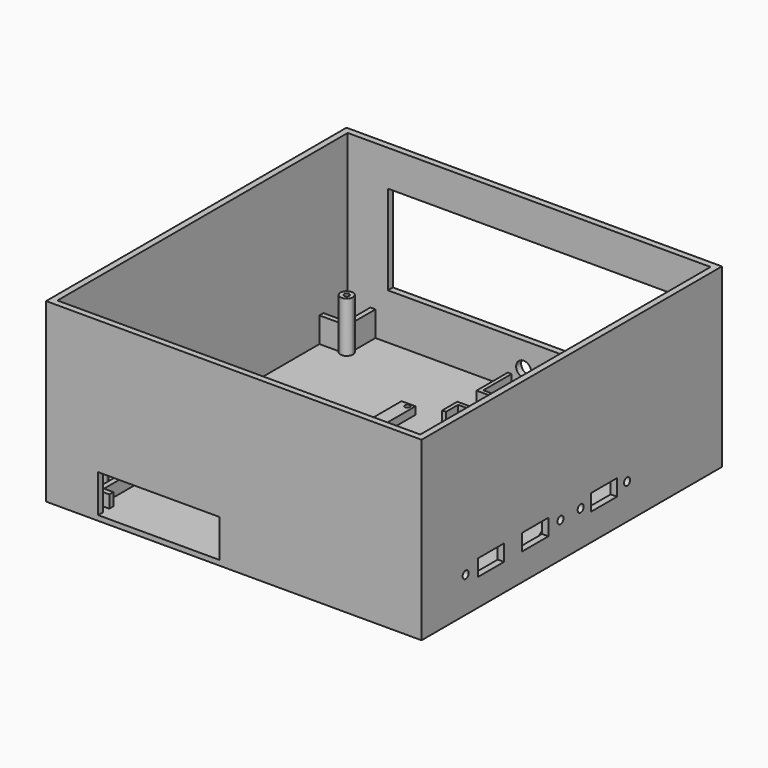
from build123d import *

# Parameters (mm, degrees)
F1_W      = 189.0500009048
F1_H      = 189.0500009048
F1_W_2    = 182.7000009048
F1_H_2    = 182.7000009048
F2_DEPTH  = 86.36
F5_W      = 189.0500009048
F5_H      = 189.0500009048
F6_DEPTH  = 2.54
F7_W      = 7.62
F7_H      = 7.62
F7_R      = 3.175
F7_R_2    = 1.27
F7_W_2    = 6.985
F7_H_2    = 33.02
F8_DEPTH  = 3.81
F9_R      = 1.27
F10_DEPTH = 6.35
F11_R     = 5.08
F11_R_2   = 5.3975
F11_R_3   = 3.175
F11_R_4   = 3.81
F12_DEPTH = 3.175
F14_DEPTH = 3.176
F15_W     = 16.51
F15_H     = 8.255
F15_R     = 1.905
F16_DEPTH = 3.175
F20_DEPTH = 0.9525
F21_R     = 1.27
F22_DEPTH = 12.7
F23_DEPTH = 25.4
F24_W     = 159.385
F24_H     = 45.085
F25_DEPTH = 25.4


with BuildPart() as f2:
    # F1 (on Top) → F2 (new body)
    with BuildSketch(Plane.XY):
        with Locations((78.65, -74.84)):
            Rectangle(F1_W, F1_H)
        with Locations((78.65, -74.84)):
            Rectangle(F1_W_2, F1_H_2, mode=Mode.SUBTRACT)
    extrude(amount=F2_DEPTH)

    # F5 (on Top) → F6 (join)
    with BuildSketch(Plane.XY):
        with Locations((78.65, -74.84)):
            Rectangle(F5_W, F5_H)
    extrude(amount=-F6_DEPTH)

    # F7 (on Top) → F8 (join)
    with BuildSketch(Plane.XY):
        with Locations((81.7350004524, -95.2499995476)):
            Rectangle(F7_W, F7_H)
        with Locations((132.5350004524, -95.2499995476)):
            Rectangle(F7_W, F7_H)
        with Locations((83.0050004524, -5.0799995476)):
            Circle(F7_R)
        with Locations((83.0050004524, -5.0799995476)):
            Circle(F7_R_2, mode=Mode.SUBTRACT)
        with Locations((131.2650004524, 10.1600004524)):
            Circle(F7_R)
        with Locations((131.2650004524, 10.1600004524)):
            Circle(F7_R_2, mode=Mode.SUBTRACT)
        with Locations((50.9375004524, -41.2749995476)):
            Rectangle(F7_W_2, F7_H_2)
        with Locations((51.8900004524, -53.3399995476)):
            Circle(F7_R_2, mode=Mode.SUBTRACT)
        with Locations((51.8900004524, -26.6699995476)):
            Circle(F7_R_2, mode=Mode.SUBTRACT)
    extrude(amount=F8_DEPTH)

    # F9 (on Top) → F10 (join)
    with BuildSketch(Plane.XY):
        Polygon((76.0200004524, -15.2399995476), (67.8920004524, -15.2399995476), (67.8920004524, -24.7649995476), (69.7970004524, -24.7649995476), (69.7970004524, -17.1449995476), (77.9250004524, -17.1449995476), (77.9250004524, -1.2699995476), (69.7970004524, -1.2699995476), (69.7970004524, 16.5100004524), (67.8920004524, 16.5100004524), (67.8920004524, -3.1749995476), (76.0200004524, -3.1749995476), align=None)
        with BuildLine():
            Line((136.3450004524, 16.5100004524), (136.3450004524, -99.0599995476))
            Line((136.3450004524, -99.0599995476), (77.9250004524, -99.0599995476))
            Line((77.9250004524, -99.0599995476), (77.9250004524, -52.7049995476))
            Line((77.9250004524, -52.7049995476), (67.8920004524, -52.7049995476))
            Line((67.8920004524, -52.7049995476), (67.8920004524, -57.7849995476))
            Line((67.8920004524, -57.7849995476), (76.0200004524, -57.7849995476))
            Line((76.0200004524, -57.7849995476), (76.0200004524, -100.9649995476))
            Line((76.0200004524, -100.9649995476), (76.0200004524, -159.84))
            Line((76.0200004524, -159.84), (71.3210004524, -159.84))
            Line((71.3210004524, -159.84), (71.3210004524, -162.38))
            Line((71.3210004524, -162.38), (78.5600004524, -162.38))
            Line((78.5600004524, -162.38), (78.5600004524, -112.215))
            Line((78.5600004524, -112.215), (81.7350004524, -112.215))
            ThreePointArc((81.7350004524, -112.215), (84.9100004524, -109.04), (81.7350004524, -105.865))
            Line((81.7350004524, -105.865), (78.5600004524, -105.865))
            Line((78.5600004524, -105.865), (78.5600004524, -100.9649995476))
            Line((78.5600004524, -100.9649995476), (138.2500004524, -100.9649995476))
            Line((138.2500004524, -100.9649995476), (138.2500004524, 16.5100004524))
            Line((138.2500004524, 16.5100004524), (136.3450004524, 16.5100004524))
        make_face()
        with Locations((81.7350004524, -109.04)):
            Circle(F9_R, mode=Mode.SUBTRACT)
        with BuildLine():
            Line((5.6620004524, -57.7849995476), (47.4450004524, -57.7849995476))
            Line((47.4450004524, -57.7849995476), (47.4450004524, -55.2449995476))
            Line((47.4450004524, -55.2449995476), (3.1220004524, -55.2449995476))
            Line((3.1220004524, -55.2449995476), (3.1220004524, -105.865))
            Line((3.1220004524, -105.865), (-0.0529995476, -105.865))
            ThreePointArc((-0.0529995476, -105.865), (-3.2279995476, -109.04), (-0.0529995476, -112.215))
            Line((-0.0529995476, -112.215), (3.1220004524, -112.215))
            Line((3.1220004524, -112.215), (3.1220004524, -162.38))
            Line((3.1220004524, -162.38), (10.3610004524, -162.38))
            Line((10.3610004524, -162.38), (10.3610004524, -159.84))
            Line((10.3610004524, -159.84), (5.6620004524, -159.84))
            Line((5.6620004524, -159.84), (5.6620004524, -57.7849995476))
        make_face()
        with Locations((-0.0529995476, -109.04)):
            Circle(F9_R, mode=Mode.SUBTRACT)
    extrude(amount=F10_DEPTH)

    # F11 (on face) → F12 (cut, through all)
    with BuildSketch(Plane(origin=(0, 19.6850004524, 0), x_dir=(-1, 0, 0), z_dir=(0, 1, 0))):
        with Locations((-119.2000004524, 12.319)):
            Circle(F11_R)
        with Locations((-102.5630004524, 11.43)):
            Circle(F11_R_2)
        with Locations((-88.0850004524, 12.319)):
            Circle(F11_R_3)
        with Locations((-75.8930004524, 10.414)):
            Circle(F11_R_4)
    extrude(amount=-F12_DEPTH, mode=Mode.SUBTRACT)

    # F13 (on face) → F14 (cut, through all)
    with BuildSketch(Plane(origin=(0, -166.1900004524, 0), x_dir=(-1, 0, 0), z_dir=(0, 1, 0))):
        Polygon((-10.3610004524, 0), (-10.3610004524, 6.35), (-10.3610004524, 19.05), (-71.3210004524, 19.05), (-71.3210004524, 6.35), (-71.3210004524, 0), align=None)
        Polygon((-10.3610004524, 0), (-10.3610004524, 6.35), (-10.3610004524, 19.05), (-71.3210004524, 19.05), (-71.3210004524, 6.35), (-71.3210004524, 0), align=None)
        Polygon((-10.3610004524, 0), (-10.3610004524, 6.35), (-10.3610004524, 19.05), (-71.3210004524, 19.05), (-71.3210004524, 6.35), (-71.3210004524, 0), align=None)
        Polygon((-10.3610004524, 0), (-10.3610004524, 6.35), (-10.3610004524, 19.05), (-71.3210004524, 19.05), (-71.3210004524, 6.35), (-71.3210004524, 0), align=None)
        Polygon((-10.3610004524, 0), (-10.3610004524, 6.35), (-10.3610004524, 19.05), (-71.3210004524, 19.05), (-71.3210004524, 6.35), (-71.3210004524, 0), align=None)
        Polygon((-10.3610004524, 0), (-10.3610004524, 6.35), (-10.3610004524, 19.05), (-71.3210004524, 19.05), (-71.3210004524, 6.35), (-71.3210004524, 0), align=None)
    extrude(amount=-F14_DEPTH, mode=Mode.SUBTRACT)

    # F15 (on face) → F16 (cut, through all)
    with BuildSketch(Plane.YZ.offset(173.1750004524)):
        with Locations((-125.73, 15.24)):
            Rectangle(F15_W, F15_H)
        with Locations((-141.605, 15.24)):
            Circle(F15_R)
        with Locations((-97.79, 15.24)):
            Rectangle(F15_W, F15_H)
        with Locations((-81.915, 15.24)):
            Circle(F15_R)
        with Locations((-54.61, 15.24)):
            Rectangle(F15_W, F15_H)
        with Locations((-69.215, 15.24)):
            Circle(F15_R)
        with Locations((-40.005, 15.24)):
            Circle(F15_R)
    extrude(amount=-F16_DEPTH, mode=Mode.SUBTRACT)

    # F19 (on plane+point) → F20 (join, symmetric)
    with BuildSketch(Plane.XZ.offset(75.565)):
        Polygon((170.0000004524, 0), (170.0000004524, 21.59), (157.3000004524, 0), align=None)
    extrude(amount=F20_DEPTH, both=True)

    # F21 (on Top) → F22 (join)
    with BuildSketch(Plane.XY):
        with BuildLine():
            ThreePointArc((-1.27, 2.9099355663), (0, 3.175), (1.27, 2.9099355663))
            Line((1.27, 2.9099355663), (1.27, 16.5100004524))
            Line((1.27, 16.5100004524), (-1.27, 16.5100004524))
            Line((-1.27, 16.5100004524), (-1.27, 2.9099355663))
        make_face()
        with BuildLine():
            Line((-12.7000004524, -1.27), (-2.9099355663, -1.27))
            ThreePointArc((-2.9099355663, -1.27), (-3.175, 0), (-2.9099355663, 1.27))
            Line((-2.9099355663, 1.27), (-12.7000004524, 1.27))
            Line((-12.7000004524, 1.27), (-12.7000004524, -1.27))
        make_face()
        Circle(F21_R)
        with Locations((157.48, -22.86)):
            Circle(F21_R)
        with BuildLine():
            ThreePointArc((160.3899355663, -21.59), (160.5880275436, -22.2113168813), (160.655, -22.86))
            ThreePointArc((160.655, -22.86), (160.5880275436, -23.5086831187), (160.3899355663, -24.13))
            Line((160.3899355663, -24.13), (170.0000004524, -24.13))
            Line((170.0000004524, -24.13), (170.0000004524, -21.59))
            Line((170.0000004524, -21.59), (160.3899355663, -21.59))
        make_face()
        with Locations((157.48, -154.94)):
            Circle(F21_R)
        with BuildLine():
            ThreePointArc((160.3899355663, -153.67), (160.5880275436, -154.2913168813), (160.655, -154.94))
            ThreePointArc((160.655, -154.94), (160.5880275436, -155.5886831187), (160.3899355663, -156.21))
            Line((160.3899355663, -156.21), (170.0000004524, -156.21))
            Line((170.0000004524, -156.21), (170.0000004524, -153.67))
            Line((170.0000004524, -153.67), (160.3899355663, -153.67))
        make_face()
        with BuildLine():
            ThreePointArc((158.75, -157.8499355663), (157.48, -158.115), (156.21, -157.8499355663))
            Line((156.21, -157.8499355663), (156.21, -166.1900004524))
            Line((156.21, -166.1900004524), (158.75, -166.1900004524))
            Line((158.75, -166.1900004524), (158.75, -157.8499355663))
        make_face()
        with BuildLine():
            ThreePointArc((-2.9099355663, -156.21), (-3.175, -154.94), (-2.9099355663, -153.67))
            Line((-2.9099355663, -153.67), (-12.7000004524, -153.67))
            Line((-12.7000004524, -153.67), (-12.7000004524, -156.21))
            Line((-12.7000004524, -156.21), (-2.9099355663, -156.21))
        make_face()
        with Locations((0, -154.94)):
            Circle(F21_R)
        with BuildLine():
            Line((1.27, -166.1900004524), (1.27, -157.8499355663))
            ThreePointArc((1.27, -157.8499355663), (0, -158.115), (-1.27, -157.8499355663))
            Line((-1.27, -157.8499355663), (-1.27, -166.1900004524))
            Line((-1.27, -166.1900004524), (1.27, -166.1900004524))
        make_face()
    extrude(amount=F22_DEPTH)

    # F21 (on Top) → F23 (join)
    with BuildSketch(Plane.XY):
        with BuildLine():
            ThreePointArc((-2.9099355663, -1.27), (0.6486831187, -3.1080275436), (3.175, 0))
            ThreePointArc((3.175, 0), (2.6563955842, 1.7390191201), (1.27, 2.9099355663))
            ThreePointArc((1.27, 2.9099355663), (0, 3.175), (-1.27, 2.9099355663))
            ThreePointArc((-1.27, 2.9099355663), (-2.2450640303, 2.2450640303), (-2.9099355663, 1.27))
            ThreePointArc((-2.9099355663, 1.27), (-3.175, 0), (-2.9099355663, -1.27))
        make_face()
        Circle(F21_R, mode=Mode.SUBTRACT)
        with BuildLine():
            ThreePointArc((160.3899355663, -24.13), (160.5880275436, -23.5086831187), (160.655, -22.86))
            ThreePointArc((160.655, -22.86), (160.5880275436, -22.2113168813), (160.3899355663, -21.59))
            ThreePointArc((160.3899355663, -21.59), (154.305, -22.86), (160.3899355663, -24.13))
        make_face()
        with Locations((157.48, -22.86)):
            Circle(F21_R, mode=Mode.SUBTRACT)
        with BuildLine():
            ThreePointArc((1.27, -157.8499355663), (2.6563955842, -156.6790191201), (3.175, -154.94))
            ThreePointArc((3.175, -154.94), (0.6486831187, -151.8319724564), (-2.9099355663, -153.67))
            ThreePointArc((-2.9099355663, -153.67), (-3.175, -154.94), (-2.9099355663, -156.21))
            ThreePointArc((-2.9099355663, -156.21), (-2.2450640303, -157.1850640303), (-1.27, -157.8499355663))
            ThreePointArc((-1.27, -157.8499355663), (0, -158.115), (1.27, -157.8499355663))
        make_face()
        with Locations((0, -154.94)):
            Circle(F21_R, mode=Mode.SUBTRACT)
        with BuildLine():
            ThreePointArc((160.3899355663, -156.21), (160.5880275436, -155.5886831187), (160.655, -154.94))
            ThreePointArc((160.655, -154.94), (160.5880275436, -154.2913168813), (160.3899355663, -153.67))
            ThreePointArc((160.3899355663, -153.67), (155.2349359697, -152.6949359697), (156.21, -157.8499355663))
            ThreePointArc((156.21, -157.8499355663), (157.48, -158.115), (158.75, -157.8499355663))
            ThreePointArc((158.75, -157.8499355663), (159.7250640303, -157.1850640303), (160.3899355663, -156.21))
        make_face()
        with Locations((157.48, -154.94)):
            Circle(F21_R, mode=Mode.SUBTRACT)
    extrude(amount=F23_DEPTH)

    # F24 (on Front) → F25 (cut)
    with BuildSketch(Plane.XZ):
        with Locations((87.2109, 45.7073)):
            Rectangle(F24_W, F24_H)
        with Locations((87.2109, 45.7073)):
            Rectangle(F24_W, F24_H)
        with Locations((87.2109, 45.7073)):
            Rectangle(F24_W, F24_H)
        with Locations((87.2109, 45.7073)):
            Rectangle(F24_W, F24_H)
        with Locations((87.2109, 45.7073)):
            Rectangle(F24_W, F24_H)
        with Locations((87.2109, 45.7073)):
            Rectangle(F24_W, F24_H)
        with Locations((87.2109, 45.7073)):
            Rectangle(F24_W, F24_H)
        with Locations((87.2109, 45.7073)):
            Rectangle(F24_W, F24_H)
        with Locations((87.2109, 45.7073)):
            Rectangle(F24_W, F24_H)
        with Locations((87.2109, 45.7073)):
            Rectangle(F24_W, F24_H)
        with Locations((87.2109, 45.7073)):
            Rectangle(F24_W, F24_H)
        with Locations((87.2109, 45.7073)):
            Rectangle(F24_W, F24_H)
        with Locations((87.2109, 45.7073)):
            Rectangle(F24_W, F24_H)
    extrude(amount=-F25_DEPTH, mode=Mode.SUBTRACT)


solid = f2.part
